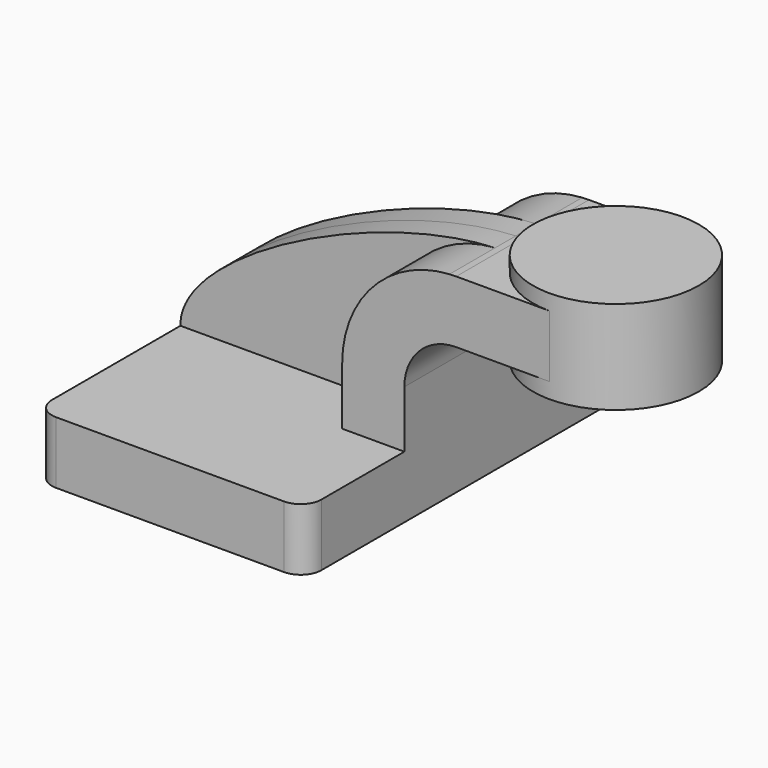
from build123d import *

# Parameters (mm, degrees)
F1_DEPTH = 63.5
F2_DEPTH = 25.4
F3_DEPTH = 7.9375
F5_R     = 6.35


with BuildPart() as f1:
    # F0 (on Front) → F1 (new body, symmetric)
    with BuildSketch(Plane.XZ):
        Polygon((-41.275, 9.525), (-41.275, -9.525), (41.275, -9.525), (41.275, 9.525), (22.225, 9.525), align=None)
    extrude(amount=F1_DEPTH, both=True)

    # F0 (on Front) → F2 (join, symmetric)
    with BuildSketch(Plane.XZ):
        Polygon((85.725, 61.9252), (60.325, 61.9252), (60.325, 42.8752), (85.725, 42.8752), (85.725, 52.3875), align=None)
        with BuildLine():
            Line((22.225, 9.525), (41.275, 9.525))
            Line((41.275, 9.525), (41.275, 27.0002))
            ThreePointArc((41.275, 27.0002), (45.92468, 38.22552), (57.15, 42.8752))
            Line((57.15, 42.8752), (60.325, 42.8752))
            Line((60.325, 42.8752), (60.325, 61.9252))
            Line((60.325, 61.9252), (57.15, 61.9252))
            add(Edge.make_bspline(
                [(55.092977, 61.86457), (55.785837, 61.89427), (56.471675, 61.914556), (57.15, 61.9252)],
                knots=[109.502305, 109.502305, 109.502305, 109.502305, 111.504536, 111.504536, 111.504536, 111.504536], degree=3))
            ThreePointArc((55.092977, 61.86457), (31.737433, 50.957601), (22.225, 27.0002))
            Line((22.225, 27.0002), (22.225, 9.525))
        make_face()
    extrude(amount=F2_DEPTH, both=True)

    # F0 (on Front) → F3 (join, symmetric)
    with BuildSketch(Plane.XZ):
        with BuildLine():
            add(Edge.make_bspline(
                [(-41.275, 9.525), (-41.696727, 30.455088), (17.200338, 60.240237), (55.092977, 61.86457)],
                knots=[0, 0, 0, 0, 109.502305, 109.502305, 109.502305, 109.502305], degree=3))
            Line((-41.275, 9.525), (22.225, 9.525))
            Line((22.225, 9.525), (22.225, 27.0002))
            ThreePointArc((22.225, 27.0002), (31.737433, 50.957601), (55.092977, 61.86457))
        make_face()
    extrude(amount=F3_DEPTH, both=True)

    # F0 (on Front) → F4 (revolve)
    with BuildSketch(Plane.XZ):
        Polygon((85.725, 66.675), (85.725, 61.9252), (85.725, 52.3875), (85.725, 42.8752), (85.725, 38.1), (111.125, 38.1), (111.125, 66.675), align=None)
    revolve(axis=Axis((85.725, 0, 47.63135), (0, 0, -1)))

    # F5
    f5_edges = [f1.edges().sort_by_distance(p)[0] for p in [
        (-41.275, -63.5, 0),
        (41.275, 63.5, 0),
        (41.275, -63.5, 0),
        (-41.275, 63.5, 0),
    ]]
    fillet(f5_edges, radius=F5_R)


solid = f1.part
